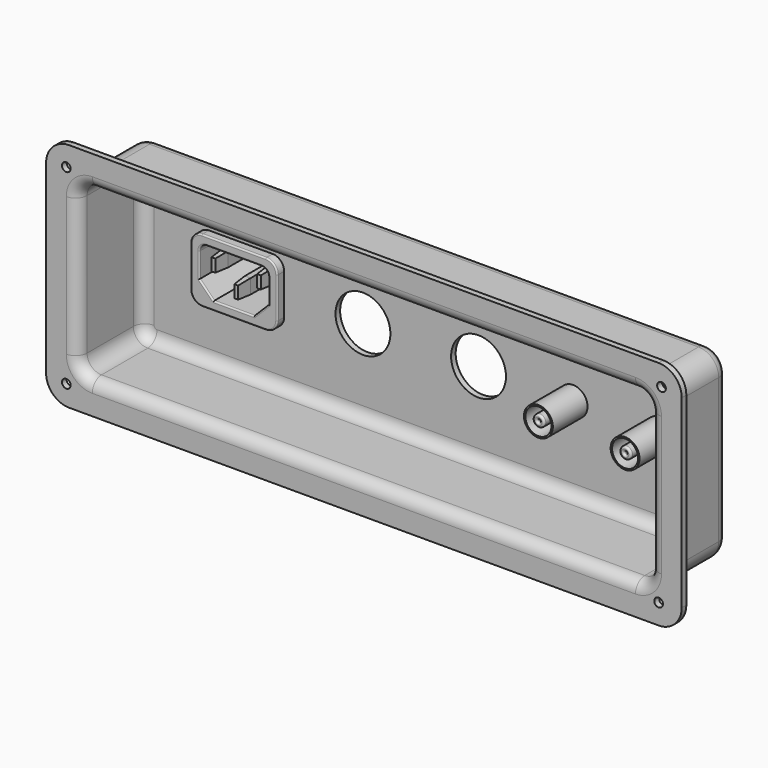
from build123d import *

# Parameters (mm, degrees)
F1_DEPTH       = 30
F3_DEPTH       = 28
F5_DEPTH       = 28
F6_R           = 4
F8_D           = 3
F9_R           = 5
F10_DEPTH      = 15
F11_R          = 4.5
F11_R_2        = 2
F12_DEPTH      = 15
F14_D          = 1
F14_DEPTH      = 10
F14_TIP        = 0.3004303095
F15_R          = 0.7
F17_DEPTH      = 3
F17_DEPTH_BACK = 25
F19_DEPTH      = 25
F20_W          = 2
F20_H          = 5
F21_DEPTH      = 24
F22_SIZE2      = 0.3496340597
F22_SIZE       = 5
F23_SIZE2      = 0.3496340597
F23_SIZE       = 5
F24_SIZE2      = 0.3496340597
F24_SIZE       = 5
F25_R          = 0.5
F26_R          = 9.5
F27_DEPTH      = 2


with BuildPart() as f1:
    # F0 (on Front) → F1 (new body)
    with BuildSketch(Plane.XZ):
        with BuildLine():
            ThreePointArc((0, 8), (2.3431457505, 2.3431457505), (8, 0))
            Line((8, 0), (212, 0))
            ThreePointArc((212, 0), (217.6568542495, 2.3431457505), (220, 8))
            Line((220, 8), (220, 72))
            ThreePointArc((220, 72), (217.6568542495, 77.6568542495), (212, 80))
            Line((212, 80), (8, 80))
            ThreePointArc((8, 80), (2.3431457505, 77.6568542495), (0, 72))
            Line((0, 72), (0, 8))
        make_face()
    extrude(amount=F1_DEPTH)

    # F2 (on face) → F3 (cut)
    with BuildSketch(Plane(origin=(0, 0, 0), x_dir=(-1, 0, 0), z_dir=(0, 1, 0))):
        with BuildLine():
            ThreePointArc((-8, 0), (-2.3431457505, 2.3431457505), (0, 8))
            Line((0, 8), (0, 72))
            ThreePointArc((0, 72), (-2.3431457505, 77.6568542495), (-8, 80))
            Line((-8, 80), (-212, 80))
            ThreePointArc((-212, 80), (-217.6568542495, 77.6568542495), (-220, 72))
            Line((-220, 72), (-220, 8))
            ThreePointArc((-220, 8), (-217.6568542495, 2.3431457505), (-212, 0))
            Line((-212, 0), (-8, 0))
        make_face()
        with BuildLine():
            ThreePointArc((-212, 65), (-209.9497474683, 69.9497474683), (-205, 72))
            Line((-205, 72), (-15, 72))
            ThreePointArc((-15, 72), (-10.0502525317, 69.9497474683), (-8, 65))
            Line((-8, 65), (-8, 15))
            ThreePointArc((-8, 15), (-10.0502525317, 10.0502525317), (-15, 8))
            Line((-15, 8), (-205, 8))
            ThreePointArc((-205, 8), (-209.9497474683, 10.0502525317), (-212, 15))
            Line((-212, 15), (-212, 65))
        make_face(mode=Mode.SUBTRACT)
    extrude(amount=-F3_DEPTH, mode=Mode.SUBTRACT)

    # F4 (on face) → F5 (cut)
    with BuildSketch(Plane.XZ.offset(30)):
        with BuildLine():
            Line((204, 69), (16, 69))
            ThreePointArc((16, 69), (12.4644660941, 67.5355339059), (11, 64))
            Line((11, 64), (11, 16))
            ThreePointArc((11, 16), (12.4644660941, 12.4644660941), (16, 11))
            Line((16, 11), (204, 11))
            ThreePointArc((204, 11), (207.5355339059, 12.4644660941), (209, 16))
            Line((209, 16), (209, 64))
            ThreePointArc((209, 64), (207.5355339059, 67.5355339059), (204, 69))
        make_face()
    extrude(amount=-F5_DEPTH, mode=Mode.SUBTRACT)

    # F6
    f6_edges = [f1.edges().sort_by_distance(p)[0] for p in [
        (110, -2, 69),
        (12.464466, -2, 67.535534),
        (11, -2, 40),
        (12.464466, -2, 12.464466),
        (110, -2, 11),
        (207.535534, -2, 12.464466),
        (209, -2, 40),
        (207.535534, -2, 67.535534),
        (110, 0, 8),
        (10.050253, 0, 10.050253),
        (8, 0, 40),
        (10.050253, 0, 69.949747),
        (110, 0, 72),
        (209.949747, 0, 69.949747),
        (212, 0, 40),
        (209.949747, 0, 10.050253),
        (110, -28, 8),
        (11, -30, 40),
    ]]
    fillet(f6_edges, radius=F6_R)

    # F8 (through all)
    with Locations(Plane.XZ.offset(30)):
        with Locations((7, 73), (213, 73), (212, 7), (7, 7)):
            Hole(F8_D / 2)

    # F9 (on face) → F10 (join)
    with BuildSketch(Plane.XZ.offset(2)):
        with Locations((160, 40)):
            Circle(F9_R)
        with Locations((190, 40)):
            Circle(F9_R)
    extrude(amount=F10_DEPTH)

    # F11 (on face) → F12 (cut)
    with BuildSketch(Plane.XZ.offset(17)):
        with Locations((160, 40)):
            Circle(F11_R)
        with Locations((160, 40)):
            Circle(F11_R_2, mode=Mode.SUBTRACT)
        with Locations((190, 40)):
            Circle(F11_R)
        with Locations((190, 40)):
            Circle(F11_R_2, mode=Mode.SUBTRACT)
    extrude(amount=-F12_DEPTH, mode=Mode.SUBTRACT)

    # F14
    with Locations(Plane.XZ.offset(17)):
        with Locations((160, 40), (190, 40)):
            Hole(F14_D / 2, depth=F14_DEPTH)
            with Locations((0, 0, -(F14_DEPTH + F14_TIP / 2))):  # 118° drill point
                Cone(0, F14_D / 2, F14_TIP, mode=Mode.SUBTRACT)

    # F15
    f15_edges = [f1.edges().sort_by_distance(p)[0] for p in [
        (158, -17, 40),
        (159.5, -17, 40),
        (188, -17, 40),
        (189.5, -17, 40),
    ]]
    fillet(f15_edges, radius=F15_R)

    # F16 (on face) → F17 (join, two sides)
    with BuildSketch(Plane.XZ.offset(2)) as f17_sk:
        with BuildLine():
            Line((56, 51.1033013463), (34, 51.1033013463))
            ThreePointArc((34, 51.1033013463), (31.1715728753, 49.931728471), (30, 47.1033013463))
            Line((30, 47.1033013463), (30, 33.1033013463))
            ThreePointArc((30, 33.1033013463), (31.1715728753, 30.2748742216), (34, 29.1033013463))
            Line((34, 29.1033013463), (56, 29.1033013463))
            ThreePointArc((56, 29.1033013463), (58.8284271247, 30.2748742216), (60, 33.1033013463))
            Line((60, 33.1033013463), (60, 47.1033013463))
            ThreePointArc((60, 47.1033013463), (58.8284271247, 49.931728471), (56, 51.1033013463))
        make_face()
    extrude(amount=F17_DEPTH)
    extrude(f17_sk.sketch, amount=-F17_DEPTH_BACK)

    # F18 (on face) → F19 (cut)
    with BuildSketch(Plane.XZ.offset(5)):
        with BuildLine():
            Line((54.5, 48.1033013463), (35.5, 48.1033013463))
            ThreePointArc((35.5, 48.1033013463), (33.732233047, 47.3710682993), (33, 45.6033013463))
            Line((33, 45.6033013463), (33, 37.1033013463))
            Line((33, 37.1033013463), (38, 32.1033013463))
            Line((38, 32.1033013463), (52, 32.1033013463))
            Line((52, 32.1033013463), (57, 37.1033013463))
            Line((57, 37.1033013463), (57, 45.6033013463))
            ThreePointArc((57, 45.6033013463), (56.267766953, 47.3710682993), (54.5, 48.1033013463))
        make_face()
    extrude(amount=-F19_DEPTH, mode=Mode.SUBTRACT)

    # F20 (on face) → F21 (join)
    with BuildSketch(Plane.XZ.offset(-20)):
        with Locations((52.8765896559, 42.4104718864)):
            Rectangle(F20_W, F20_H)
        Polygon((45.998724848, 39.2563976347), (44.001275152, 39.2563976347), (44.0000000325, 34.2563977973), (45.9999999675, 34.2563977973), align=None)
        with Locations((37.1234103441, 42.4104718864)):
            Rectangle(F20_W, F20_H)
    extrude(amount=F21_DEPTH)

    # F22
    f22_edges = [f1.edges().sort_by_distance(p)[0] for p in [
        (52.87659, -4, 39.910472),
        (53.87659, -4, 42.410472),
        (52.87659, -4, 44.910472),
        (51.87659, -4, 42.410472),
    ]]
    chamfer(f22_edges, length=F22_SIZE, length2=F22_SIZE2)

    # F23
    f23_edges = [f1.edges().sort_by_distance(p)[0] for p in [
        (45, -4, 39.256398),
        (44.000638, -4, 36.756398),
        (45, -4, 34.256398),
        (45.999362, -4, 36.756398),
    ]]
    chamfer(f23_edges, length=F23_SIZE, length2=F23_SIZE2)

    # F24
    f24_edges = [f1.edges().sort_by_distance(p)[0] for p in [
        (36.12341, -4, 42.410472),
        (37.12341, -4, 39.910472),
        (38.12341, -4, 42.410472),
        (37.12341, -4, 44.910472),
    ]]
    chamfer(f24_edges, length=F24_SIZE, length2=F24_SIZE2)

    # F25
    f25_edges = [f1.edges().sort_by_distance(p)[0] for p in [
        (58.828427, -5, 49.931728),
        (60, -5, 40.103301),
        (45, -5, 51.103301),
        (58.828427, -5, 30.274874),
        (31.171573, -5, 49.931728),
        (45, -5, 29.103301),
        (30, -5, 40.103301),
        (31.171573, -5, 30.274874),
        (45, -5, 48.103301),
        (33.732233, -5, 47.371068),
        (33, -5, 41.353301),
        (35.5, -5, 34.603301),
        (45, -5, 32.103301),
        (54.5, -5, 34.603301),
        (57, -5, 41.353301),
        (56.267767, -5, 47.371068),
    ]]
    fillet(f25_edges, radius=F25_R)

    # F26 (on face) → F27 (cut, through all)
    with BuildSketch(Plane.XZ.offset(2)):
        with Locations((87.2733592987, 40)):
            Circle(F26_R)
        with Locations((127.2733592987, 40)):
            Circle(F26_R)
    extrude(amount=-F27_DEPTH, mode=Mode.SUBTRACT)


solid = f1.part
